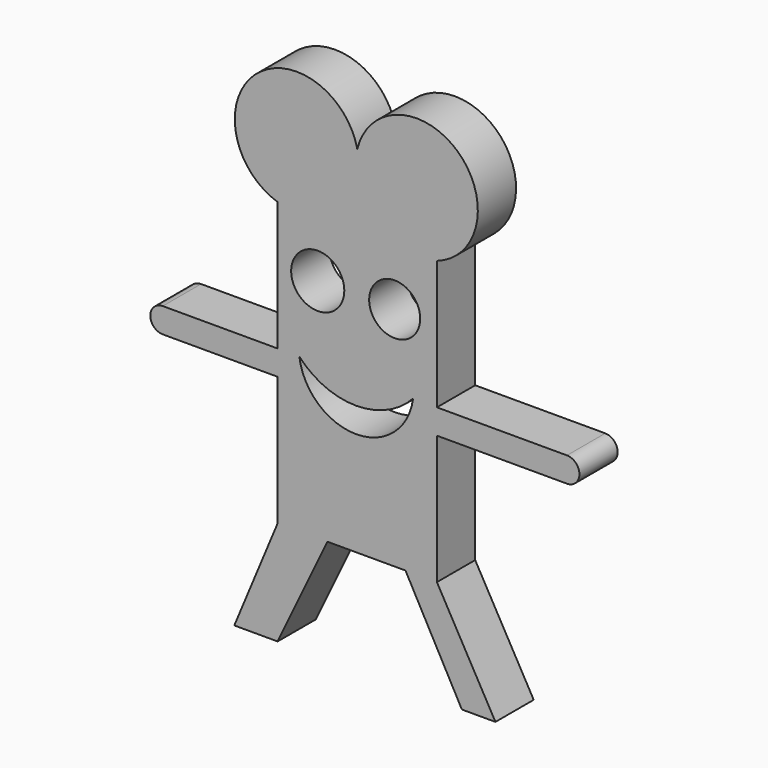
from build123d import *

# Parameters (mm, degrees)
F0_R     = 7.0556467167
F0_R_2   = 6.7741439951
F0_W     = 34.5366932452
F0_H     = 6.6195321269
F0_W_2   = 30.5074118078
F1_DEPTH = 12.7


with BuildPart() as f1:
    # F0 (on Front) → F1 (new body)
    with BuildSketch(Plane.XZ):
        Polygon((21.153723821, 3.3097660635), (21.153723821, 37.5586524606), (-21.153723821, 37.5586524606), (-21.153723821, 3.3097660635), (-21.153723821, -3.3097660635), (-21.153723821, -37.5586524606), (-7.9146586359, -37.5586524606), (12.8073552623, -37.5586524606), (21.153723821, -37.5586524606), (21.153723821, -3.3097660635), align=None)
        with BuildLine():
            ThreePointArc((14.8219978437, 3.3097660635), (-0.2878052182, -9.9479659681), (-15.3976082802, 3.3097660635))
            ThreePointArc((-15.3976082802, 3.3097660635), (-0.2878052182, -3.2890239903), (14.8219978437, 3.3097660635))
        make_face(mode=Mode.SUBTRACT)
        with Locations((-10.5049097911, 22.5927531719)):
            Circle(F0_R, mode=Mode.SUBTRACT)
        with Locations((9.9292984232, 22.5927531719)):
            Circle(F0_R_2, mode=Mode.SUBTRACT)
        with BuildLine():
            Line((-21.153723821, 37.5586524606), (21.153723821, 37.5586524606))
            ThreePointArc((21.153723821, 37.5586524606), (26.7122947255, 64.9009581732), (0, 56.8416342139))
            ThreePointArc((0, 56.8416342139), (-27.1610752257, 65.3932771972), (-21.153723821, 37.5586524606))
        make_face()
        with Locations((38.4220704436, 0)):
            Rectangle(F0_W, F0_H)
        with Locations((-36.4074297249, 0)):
            Rectangle(F0_W_2, F0_H)
        with BuildLine():
            ThreePointArc((55.6904170662, -3.3097660635), (59.0001831297, 0), (55.6904170662, 3.3097660635))
            Line((55.6904170662, 3.3097660635), (55.6904170662, -3.3097660635))
        make_face()
        with BuildLine():
            Line((-51.6611356288, -3.3097660635), (-51.6611356288, 3.3097660635))
            ThreePointArc((-51.6611356288, 3.3097660635), (-54.9709016923, 0), (-51.6611356288, -3.3097660635))
        make_face()
        Polygon((36.6952344775, -65.1880055666), (21.153723821, -37.5586524606), (12.8073552623, -37.5586524606), (27.7732536197, -65.1880055666), align=None)
        Polygon((-7.9146586359, -37.5586524606), (-21.153723821, -37.5586524606), (-32.6659530401, -65.1880055666), (-21.153723821, -65.1880055666), align=None)
    extrude(amount=F1_DEPTH)


solid = f1.part
